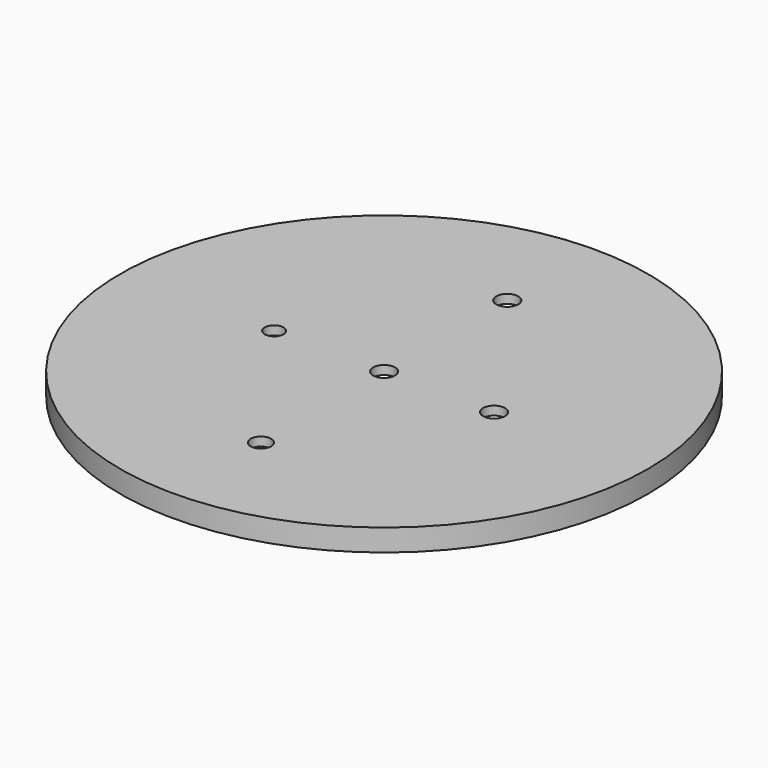
from build123d import *

# Parameters (mm, degrees)
F0_R     = 76.2
F1_DEPTH = 6.35
F2_R     = 73.025
F3_DEPTH = 3.81
F4_R     = 2.712473
F4_R_2   = 3.175
F5_DEPTH = 6.351
F6_R     = 3.175
F6_R_2   = 2.966679
F7_DEPTH = 6.351


with BuildPart() as f1:
    # F0 (on Top) → F1 (new body)
    with BuildSketch(Plane.XY):
        Circle(F0_R)
    extrude(amount=F1_DEPTH)

    # F2 (on Top) → F3 (cut)
    with BuildSketch(Plane.XY):
        Circle(F2_R)
    extrude(amount=F3_DEPTH, mode=Mode.SUBTRACT)

    # F4 (on face) → F5 (cut, through all)
    with BuildSketch(Plane.XY.offset(6.35)):
        with Locations((-31.75, 0)):
            Circle(F4_R)
        with Locations((31.75, 0)):
            Circle(F4_R_2)
        Circle(F4_R_2)
    extrude(amount=-F5_DEPTH, mode=Mode.SUBTRACT)

    # F6 (on face) → F7 (cut, through all)
    with BuildSketch(Plane.XY.offset(6.35)):
        with Locations((0, 44.45)):
            Circle(F6_R)
        with Locations((0, -44.45)):
            Circle(F6_R_2)
    extrude(amount=-F7_DEPTH, mode=Mode.SUBTRACT)


solid = f1.part
